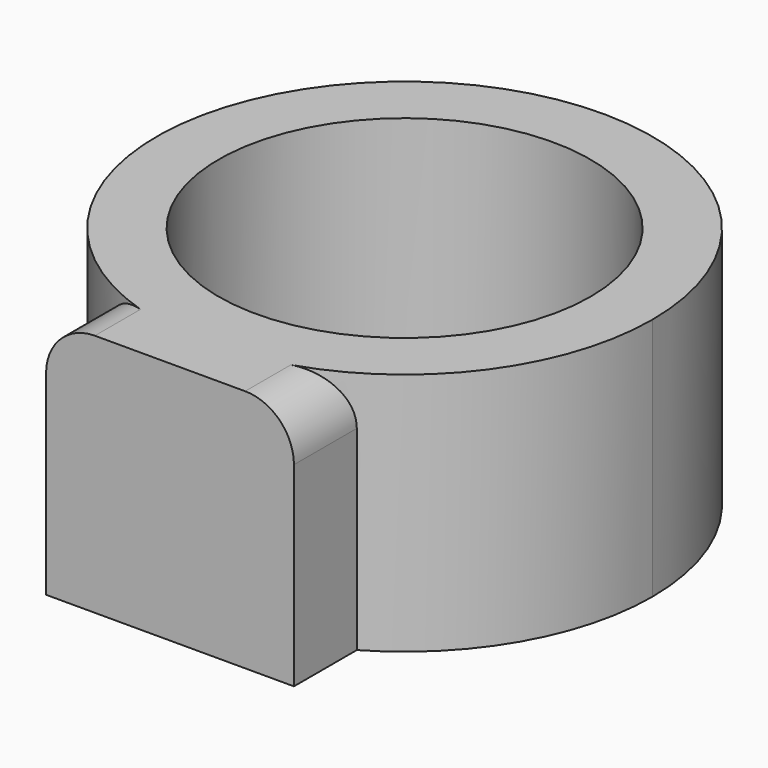
from build123d import *

# Parameters (mm, degrees)
F1_R     = 19.05
F2_DEPTH = 25
F3_R     = 5


with BuildPart() as f2:
    # F1 (on offset) → F2 (new body)
    with BuildSketch(Plane.XY.offset(38.1)):
        with BuildLine():
            ThreePointArc((12.7, -21.9970452561), (21.9970452561, -12.7), (25.4, 0))
            ThreePointArc((25.4, 0), (-12.7, 21.9970452561), (-12.7, -21.9970452561))
            ThreePointArc((-12.7, -21.9970452561), (0, -25.4), (12.7, -21.9970452561))
        make_face()
        Circle(F1_R, mode=Mode.SUBTRACT)
        with BuildLine():
            ThreePointArc((12.7, -21.9970452561), (0, -25.4), (-12.7, -21.9970452561))
            Line((-12.7, -21.9970452561), (-12.7, -30.0485226281))
            Line((-12.7, -30.0485226281), (12.7, -30.0485226281))
            Line((12.7, -30.0485226281), (12.7, -21.9970452561))
        make_face()
    extrude(amount=F2_DEPTH)

    # F3
    f3_edges = [f2.edges().sort_by_distance(p)[0] for p in [
        (-12.7, -26.022784, 63.1),
        (12.7, -26.022784, 63.1),
    ]]
    fillet(f3_edges, radius=F3_R)


solid = f2.part
